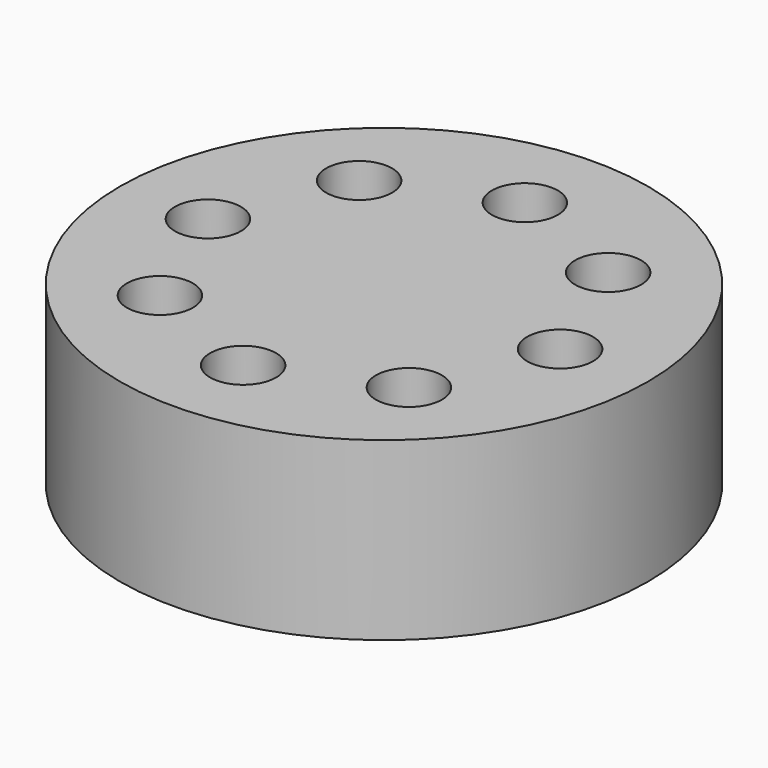
from build123d import *

# Parameters (mm, degrees)
F0_R     = 60
F1_DEPTH = 40
F2_R     = 7.5
F3_DEPTH = 25


with BuildPart() as f1:
    # F0 (on Top) → F1 (new body)
    with BuildSketch(Plane.XY):
        Circle(F0_R)
    extrude(amount=F1_DEPTH)

    # F2 (on face) → F3 (cut)
    with BuildSketch(Plane.XY.offset(40)):
        with Locations((-28.284271, 28.284271)):
            Circle(F2_R)
        with Locations((0, 40)):
            Circle(F2_R)
        with Locations((28.284271, 28.284271)):
            Circle(F2_R)
        with Locations((40, 0)):
            Circle(F2_R)
        with Locations((28.284271, -28.284271)):
            Circle(F2_R)
        with Locations((0, -40)):
            Circle(F2_R)
        with Locations((-28.284271, -28.284271)):
            Circle(F2_R)
        with Locations((-40, 0)):
            Circle(F2_R)
    extrude(amount=-F3_DEPTH, mode=Mode.SUBTRACT)


solid = f1.part
